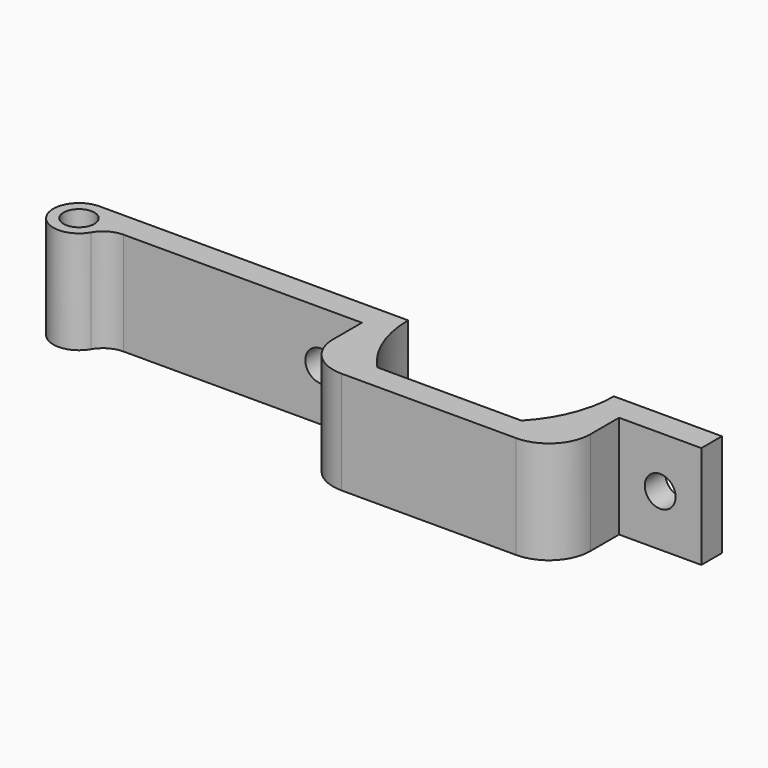
from build123d import *

# Parameters (mm, degrees)
PAD_DEPTH       = 10
SKETCH002_R     = 1.5
POCKET_DEPTH    = 10.001
SKETCH003_W     = 2.5
SKETCH003_H     = 10
PAD001_DEPTH    = 8
SKETCH004_R     = 1.5
POCKET001_DEPTH = 2.501
FILLET_R        = 4


with BuildPart() as part:
    # Sketch → Pad (new body)
    with BuildSketch(Plane.XY):
        with BuildLine():
            ThreePointArc((25.669873, 10), (26.447689, 5.961126), (28.669873, 2.5))
            Line((28.669873, 2.5), (42.669873, 2.5))
            ThreePointArc((42.669873, 2.5), (44.892057, 5.961126), (45.669873, 10))
            Line((48.169873, 10), (45.669873, 10))
            Line((48.169873, 0), (48.169873, 10))
            Line((23.169873, 0), (48.169873, 0))
            Line((23.169873, 0), (23.169873, 7.5))
            Line((23.169873, 7.5), (0, 7.5))
            ThreePointArc((0, 7.5), (-1.25, 7.165064), (-2.165064, 6.25))
            ThreePointArc((-4.330127, 10), (-6.495191, 6.25), (-2.165064, 6.25))
            Line((-4.330127, 10), (23.169873, 10))
            Line((25.669873, 10), (23.169873, 10))
        make_face()
    extrude(amount=PAD_DEPTH)

    # Sketch002 → Pocket (cut, through all)
    with BuildSketch(Plane.XY.offset(10)):
        with Locations((-4.330127, 7.5)):
            Circle(SKETCH002_R)
    extrude(amount=-POCKET_DEPTH, mode=Mode.SUBTRACT)

    # Sketch003 (on Face11 of Pocket) → Pad001 (join)
    with BuildSketch(Plane.YZ.offset(48.169873)):
        with Locations((8.75, 5)):
            Rectangle(SKETCH003_W, SKETCH003_H)
    extrude(amount=PAD001_DEPTH)

    # Sketch004 (on Face11 of Pad001) → Pocket001 (cut, through all)
    with BuildSketch(Plane.XZ.offset(-7.5)):
        with Locations((52.169873, 5)):
            Circle(SKETCH004_R)
        with Locations((19.169873, 5)):
            Circle(SKETCH004_R)
    extrude(amount=-POCKET001_DEPTH, mode=Mode.SUBTRACT)

    # Fillet
    fillet_edges = [part.edges().sort_by_distance(p)[0] for p in [
        (48.169873, 0, 5),
        (23.169873, 0, 5),
    ]]
    fillet(fillet_edges, radius=FILLET_R)


solid = part.part
